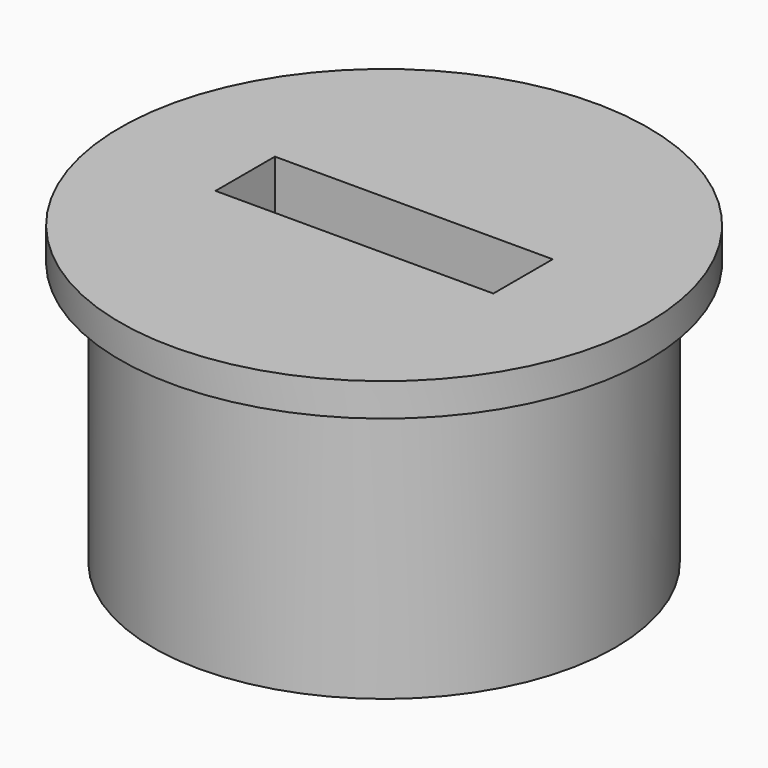
from build123d import *

# Parameters (mm, degrees)
SKETCH_R     = 8
SKETCH_W     = 8.42
SKETCH_H     = 2.25
PAD_DEPTH    = 1
SKETCH001_R  = 7
SKETCH001_W  = 8.42
SKETCH001_H  = 2.25
PAD001_DEPTH = 7
SKETCH002_R  = 7
SKETCH002_W  = 7.5
SKETCH002_H  = 1.5
PAD002_DEPTH = 1


with BuildPart() as part:
    # Sketch → Pad (new body)
    with BuildSketch(Plane.XY):
        Circle(SKETCH_R)
        Rectangle(SKETCH_W, SKETCH_H, mode=Mode.SUBTRACT)
    extrude(amount=PAD_DEPTH)

    # Sketch001 (on Face6 of Pad) → Pad001 (join)
    with BuildSketch(Plane(origin=(0, 0, 0), x_dir=(1, 0, 0), z_dir=(0, 0, -1))):
        Circle(SKETCH001_R)
        Rectangle(SKETCH001_W, SKETCH001_H, mode=Mode.SUBTRACT)
    extrude(amount=PAD001_DEPTH)

    # Sketch002 (on Face9 of Pad001) → Pad002 (join)
    with BuildSketch(Plane(origin=(0, 0, -7), x_dir=(1, 0, 0), z_dir=(0, 0, -1))):
        Circle(SKETCH002_R)
        Rectangle(SKETCH002_W, SKETCH002_H, mode=Mode.SUBTRACT)
    extrude(amount=PAD002_DEPTH)


solid = part.part
